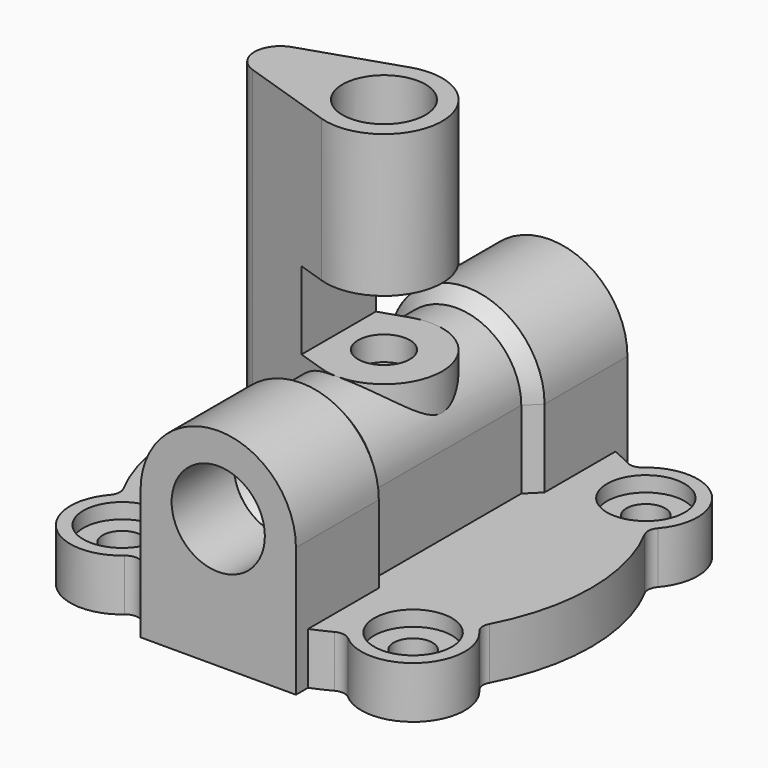
from build123d import *

# Parameters (mm, degrees)
SKETCH_R             = 80
PAD_DEPTH            = 20
SKETCH001_R          = 20
PAD001_DEPTH         = 20
HOLE_D               = 15
HOLE_DEPTH           = 25
HOLE_CBORE_D         = 30
HOLE_CBORE_DEPTH     = 5.9
PAD002_DEPTH         = 50
CHAMFER_SIZE         = 4.99
PAD003_DEPTH         = 160
SKETCH006_R          = 60
POCKET_DEPTH         = 6
SKETCH007_R          = 12
POCKET001_DEPTH      = 80.001
POCKET001_DEPTH_BACK = -80.001
SKETCH008_R          = 18
POCKET002_DEPTH      = 30
CHAMFER001_SIZE      = 5.99
SKETCH009_R          = 18
POCKET003_DEPTH      = 30
CHAMFER002_SIZE      = 5.99
SKETCH011_W          = 76.764244
SKETCH011_H          = 30
POCKET004_DEPTH      = 22.5
SKETCH013_R          = 4.5
POCKET005_DEPTH      = 80.001
FILLET_R             = 5
FILLET001_R          = 5
FILLET002_R          = 5


with BuildPart() as part:
    # Sketch → Pad (new body)
    with BuildSketch(Plane.XY):
        Circle(SKETCH_R)
    extrude(amount=PAD_DEPTH)

    # Sketch001 (on Face3 of Pad) → Pad001 (join)
    with BuildSketch(Plane.XY.offset(20)):
        with Locations((56.163277, -56.163277)):
            Circle(SKETCH001_R)
        with Locations((-56.163277, -56.163277)):
            Circle(SKETCH001_R)
        with Locations((-56.163277, 56.163277)):
            Circle(SKETCH001_R)
        with Locations((56.163277, 56.163277)):
            Circle(SKETCH001_R)
    extrude(amount=-PAD001_DEPTH)

    # Hole
    with Locations(Plane.XY.offset(20)):
        with Locations((56.163277, -56.163277), (-56.163277, -56.163277), (-56.163277, 56.163277), (56.163277, 56.163277)):
            CounterBoreHole(HOLE_D / 2, HOLE_CBORE_D / 2, HOLE_CBORE_DEPTH, depth=HOLE_DEPTH)

    # Sketch003 → Pad002 (join)
    with BuildSketch(Plane.XY):
        Polygon((-30, 80), (-30, 40), (-25, 40), (-25, -40), (-30, -40), (-30, -80), (30, -80), (30, -40), (25, -40), (25, 40), (30, 40), (30, 80), align=None)
    extrude(amount=PAD002_DEPTH)

    # Sketch004 (on Face34 of Pad002) → Revolution (revolve)
    with BuildSketch(Plane.XY.offset(50)):
        Polygon((30, 80), (30, 40), (25, 40), (25, -40), (30, -40), (30, -80), (0, -80), (0, 80), align=None)
    revolve(axis=Axis((0, 0, 50), (0, 1, 0)))

    # Chamfer
    chamfer_edges = [part.edges().sort_by_distance(p)[0] for p in [
        (0, 40, 75),
        (0, -40, 75),
    ]]
    chamfer(chamfer_edges, length=CHAMFER_SIZE)

    # Sketch005 → Pad003 (join)
    with BuildSketch(Plane.XY):
        with BuildLine():
            ThreePointArc((-7.03125, -21.37315), (22.5, 0), (-7.03125, 21.37315))
            Line((-7.03125, 21.37315), (-43.125, 9.499178))
            ThreePointArc((-43.125, 9.499178), (-50, 0), (-43.125, -9.499178))
            Line((-43.125, -9.499178), (-7.03125, -21.37315))
        make_face()
    extrude(amount=PAD003_DEPTH)

    # Sketch006 → Pocket (cut)
    with BuildSketch(Plane.XY):
        Circle(SKETCH006_R)
    extrude(amount=POCKET_DEPTH, mode=Mode.SUBTRACT)

    # Sketch007 → Pocket001 (cut, two sides)
    with BuildSketch(Plane.XZ) as pocket001_sk:
        with Locations((0, 50)):
            Circle(SKETCH007_R)
    extrude(amount=-POCKET001_DEPTH, mode=Mode.SUBTRACT)
    extrude(pocket001_sk.sketch, amount=-POCKET001_DEPTH_BACK, mode=Mode.SUBTRACT)

    # Sketch008 → Pocket002 (cut)
    with BuildSketch(Plane.XZ.offset(80)):
        with Locations((0, 50)):
            Circle(SKETCH008_R)
    extrude(amount=-POCKET002_DEPTH, mode=Mode.SUBTRACT)

    # Chamfer001
    chamfer001_edges = [part.edges().sort_by_distance(p)[0] for p in [
        (-12, -50, 50),
    ]]
    chamfer(chamfer001_edges, length=CHAMFER001_SIZE)

    # Sketch009 → Pocket003 (cut)
    with BuildSketch(Plane.XZ.offset(-80)):
        with Locations((0, 50)):
            Circle(SKETCH009_R)
    extrude(amount=POCKET003_DEPTH, mode=Mode.SUBTRACT)

    # Chamfer002
    chamfer002_edges = [part.edges().sort_by_distance(p)[0] for p in [
        (-12, 50, 50),
    ]]
    chamfer(chamfer002_edges, length=CHAMFER002_SIZE)

    # Sketch010 → Groove (revolve, cut)
    with BuildSketch(Plane(origin=(0, 0, -78), x_dir=(1, 0, 0), z_dir=(0, -1, 0))):
        Polygon((0, 238.580399), (16, 238.580399), (16, 188.580399), (10, 188.580399), (10, 143.580399), (5, 143.580399), (5, 128), (0, 128), align=None)
    revolve(axis=Axis((0, 0, -78), (0, 0, 1)), mode=Mode.SUBTRACT)

    # Sketch011 → Pocket004 (cut, symmetric)
    with BuildSketch(Plane.XZ):
        with Locations((20.882122, 90)):
            Rectangle(SKETCH011_W, SKETCH011_H)
    extrude(amount=POCKET004_DEPTH, both=True, mode=Mode.SUBTRACT)

    # Sketch012 → Groove001 (revolve, cut)
    with BuildSketch(Plane.XZ):
        Polygon((-32, 152), (-27.5, 147.5), (-27.5, 0), (-32, 0), align=None)
    revolve(axis=Axis((-32, 0, 0), (0, 0, 1)), mode=Mode.SUBTRACT)

    # Sketch013 → Pocket005 (cut, through all)
    with BuildSketch(Plane.YZ):
        with Locations((0, 140)):
            Circle(SKETCH013_R)
    extrude(amount=-POCKET005_DEPTH, mode=Mode.SUBTRACT)

    # Fillet
    fillet_edges = [part.edges().sort_by_distance(p)[0] for p in [
        (40.714231, -68.864733, 10),
        (68.864733, -40.714231, 10),
        (68.864733, 40.714231, 10),
        (40.714231, 68.864733, 10),
    ]]
    fillet(fillet_edges, radius=FILLET_R)

    # Fillet001
    fillet001_edges = [part.edges().sort_by_distance(p)[0] for p in [
        (-40.714231, 68.864733, 10),
        (-68.864733, -40.714231, 10),
        (-68.864733, 40.714231, 10),
    ]]
    fillet(fillet001_edges, radius=FILLET001_R)

    # Fillet002
    fillet002_edges = [part.edges().sort_by_distance(p)[0] for p in [
        (-40.714231, -68.864733, 10),
    ]]
    fillet(fillet002_edges, radius=FILLET002_R)


solid = part.part
